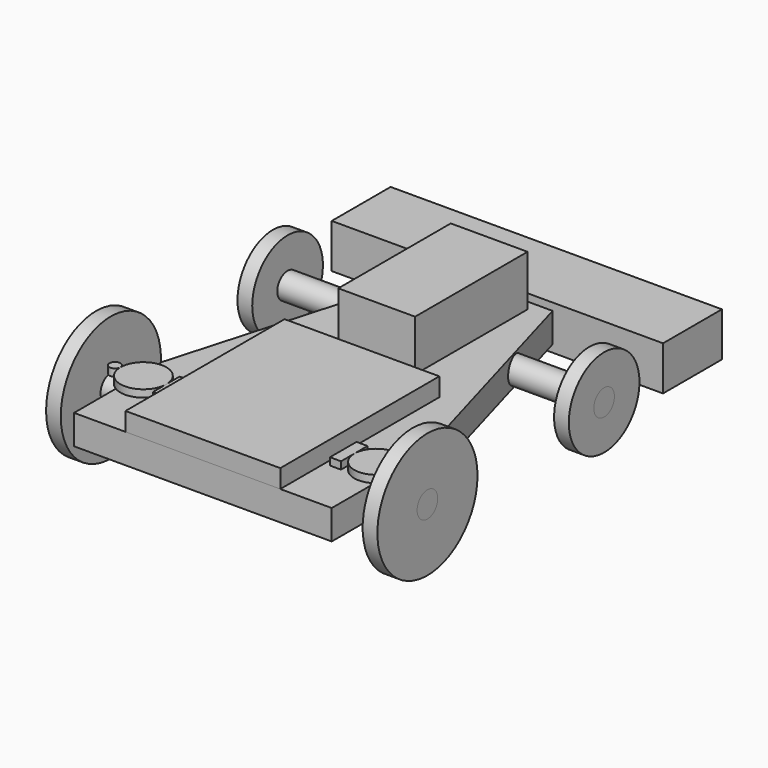
from build123d import *

# Parameters (mm, degrees)
F0_W      = 88.9
F0_H      = 10.16
F1_DEPTH  = 63.5
F2_W      = 53.4
F2_H      = 68.6
F3_DEPTH  = 6.35
F4_R      = 4.445
F5_DEPTH  = 57.15
F6_R      = 21.59
F6_R_2    = 4.445
F7_DEPTH  = 5.08
F6_R_3    = 15.24
F8_R      = 15.24
F8_R_2    = 4.445
F9_DEPTH  = 5.08
F8_R_3    = 21.59
F11_DEPTH = 2.54
F10_R     = 1.905
F2_W_2    = 26.5
F2_H_2    = 48.5
F12_DEPTH = 17.5
F13_SIZE2 = 88.9
F13_SIZE  = 25.4
F14_W     = 114.3
F14_H     = 15.24
F15_DEPTH = 25.4
F17_DEPTH = 15.24


with BuildPart() as f1:
    # F0 (on Front) → F1 (new body, symmetric)
    with BuildSketch(Plane.XZ):
        Rectangle(F0_W, F0_H)
    extrude(amount=F1_DEPTH, both=True)

    # F13
    f13_edges = [f1.edges().sort_by_distance(p)[0] for p in [
        (44.45, 63.5, 0),
        (-44.45, 63.5, 0),
    ]]
    f13_side = f1.faces().sort_by_distance((0, 63.5, 0))[0]
    chamfer(f13_edges, length=F13_SIZE, length2=F13_SIZE2, reference=f13_side)

    # F14 (on face) → F15 (join)
    with BuildSketch(Plane(origin=(0, 63.5, 0), x_dir=(-1, 0, 0), z_dir=(0, 1, 0))):
        Rectangle(F14_W, F14_H)
    extrude(amount=F15_DEPTH)

    # F16 (on face) → F17 (join)
    with BuildSketch(Plane.XY.offset(7.62)):
        Polygon((-57.15, 74.93), (-16.51, 63.5), (-7.366, 63.5), (-57.15, 77.47), align=None)
        Polygon((57.15, 77.47), (7.366, 63.5), (16.51, 63.5), (57.15, 74.93), align=None)
    extrude(amount=-F17_DEPTH)


with BuildPart() as f3:
    # F2 (on face) → F3 (new body)
    with BuildSketch(Plane.XY.offset(5.08)):
        with Locations((0, -29.2)):
            Rectangle(F2_W, F2_H)
    extrude(amount=F3_DEPTH)


with BuildPart() as f5:
    # F4 (on Right) → F5 (new body, symmetric)
    with BuildSketch(Plane.YZ):
        with Locations((-38.1, 0)):
            Circle(F4_R)
    extrude(amount=F5_DEPTH, both=True)


with BuildPart() as f5b:
    # F4 (on Right) → F5, piece 2 (new body, symmetric)
    with BuildSketch(Plane.YZ):
        with Locations((38.1, 0)):
            Circle(F4_R)
    extrude(amount=F5_DEPTH, both=True)


with BuildPart() as f7:
    # F6 (on face) → F7 (new body)
    with BuildSketch(Plane.YZ.offset(57.15)):
        with Locations((-38.1, 0)):
            Circle(F6_R)
        with Locations((-38.1, 0)):
            Circle(F6_R_2, mode=Mode.SUBTRACT)
    extrude(amount=-F7_DEPTH)


with BuildPart() as f7b:
    # F6 (on face) → F7, piece 2 (new body)
    with BuildSketch(Plane.YZ.offset(57.15)):
        with Locations((38.1, 0)):
            Circle(F6_R_3)
        with Locations((38.1, 0)):
            Circle(F6_R_2, mode=Mode.SUBTRACT)
    extrude(amount=-F7_DEPTH)


with BuildPart() as f9:
    # F8 (on face) → F9 (new body)
    with BuildSketch(Plane(origin=(-57.15, 0, 0), x_dir=(0, -1, 0), z_dir=(-1, 0, 0))):
        with Locations((-38.1, 0)):
            Circle(F8_R)
        with Locations((-38.1, 0)):
            Circle(F8_R_2, mode=Mode.SUBTRACT)
    extrude(amount=-F9_DEPTH)


with BuildPart() as f9b:
    # F8 (on face) → F9, piece 2 (new body)
    with BuildSketch(Plane(origin=(-57.15, 0, 0), x_dir=(0, -1, 0), z_dir=(-1, 0, 0))):
        with Locations((38.1, 0)):
            Circle(F8_R_3)
        with Locations((38.1, 0)):
            Circle(F8_R_2, mode=Mode.SUBTRACT)
    extrude(amount=-F9_DEPTH)


with BuildPart() as f11:
    # F10 (on face) → F11 (new body)
    with BuildSketch(Plane.XY.offset(5.08)):
        Polygon((28.605, -33.02), (28.605, -44.45), (32.415, -44.45), (32.415, -38.735), (32.415, -33.02), align=None)
    extrude(amount=F11_DEPTH)


with BuildPart() as f11b:
    # F10 (on face) → F11, piece 2 (new body)
    with BuildSketch(Plane.XY.offset(5.08)):
        with BuildLine():
            ThreePointArc((51.465, -38.735), (49.56, -36.83), (47.655, -38.735))
            ThreePointArc((47.655, -38.735), (49.56, -40.64), (51.465, -38.735))
        make_face()
    extrude(amount=F11_DEPTH)


with BuildPart() as f11c:
    # F10 (on face) → F11, piece 3 (new body)
    with BuildSketch(Plane.XY.offset(5.08)):
        with BuildLine():
            ThreePointArc((47.655, -38.735), (40.035, -31.115), (32.415, -38.735))
            ThreePointArc((32.415, -38.735), (40.035, -46.355), (47.655, -38.735))
        make_face()
    extrude(amount=F11_DEPTH)


with BuildPart() as f11d:
    # F10 (on face) → F11, piece 4 (new body)
    with BuildSketch(Plane.XY.offset(5.08)):
        with Locations((-50.165, -38.735)):
            Circle(F10_R)
    extrude(amount=F11_DEPTH)


with BuildPart() as f11e:
    # F10 (on face) → F11, piece 5 (new body)
    with BuildSketch(Plane.XY.offset(5.08)):
        with BuildLine():
            ThreePointArc((-48.26, -38.735), (-40.3375, -46.6575), (-32.415, -38.735))
            ThreePointArc((-32.415, -38.735), (-40.3375, -30.8125), (-48.26, -38.735))
        make_face()
    extrude(amount=F11_DEPTH)


with BuildPart() as f11f:
    # F10 (on face) → F11, piece 6 (new body)
    with BuildSketch(Plane.XY.offset(5.08)):
        Polygon((-32.415, -44.45), (-28.605, -44.45), (-28.605, -33.02), (-32.415, -33.02), (-32.415, -38.735), align=None)
    extrude(amount=F11_DEPTH)


with BuildPart() as f12:
    # F2 (on face) → F12 (new body)
    with BuildSketch(Plane.XY.offset(5.08)):
        with Locations((0, 35.7)):
            Rectangle(F2_W_2, F2_H_2)
    extrude(amount=F12_DEPTH)


solid = Compound([f1.part, f3.part, f5.part, f5b.part, f7.part, f7b.part, f9.part, f9b.part, f11.part, f11b.part, f11c.part, f11d.part, f11e.part, f11f.part, f12.part])
